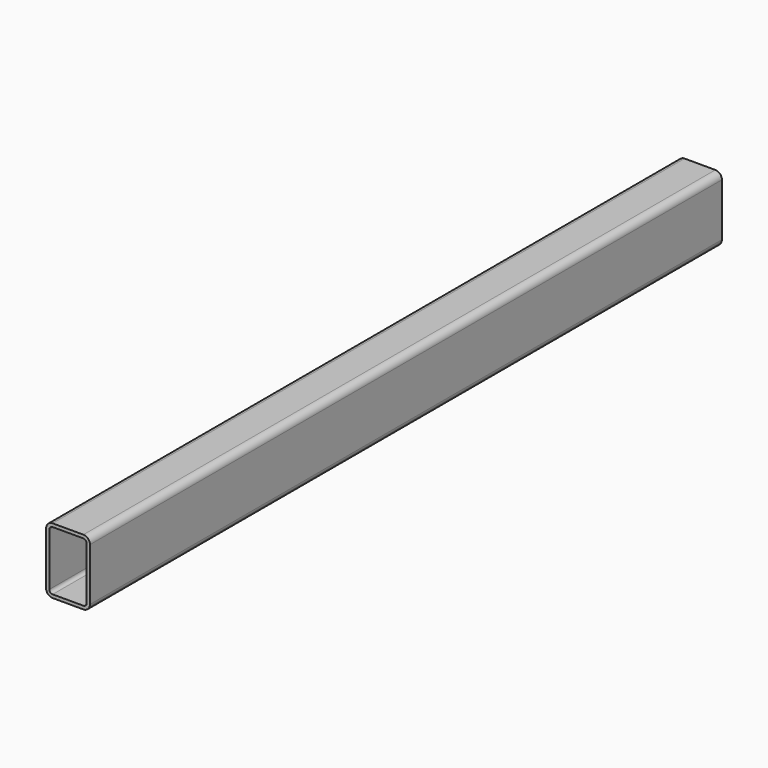
from build123d import *

# Parameters (mm, degrees)
F1_DEPTH = 720


with BuildPart() as f1:
    # F0 (on Front) → F1 (new body)
    with BuildSketch(Plane.XZ):
        with BuildLine():
            Line((14, 30), (-14, 30))
            ThreePointArc((-14, 30), (-18.242641, 28.242641), (-20, 24))
            Line((-20, 24), (-20, -24))
            ThreePointArc((-20, -24), (-18.242641, -28.242641), (-14, -30))
            Line((-14, -30), (14, -30))
            ThreePointArc((14, -30), (18.242641, -28.242641), (20, -24))
            Line((20, -24), (20, 24))
            ThreePointArc((20, 24), (18.242641, 28.242641), (14, 30))
        make_face()
        with BuildLine():
            Line((-17, -24), (-17, 24))
            ThreePointArc((-17, 24), (-16.12132, 26.12132), (-14, 27))
            Line((-14, 27), (14, 27))
            ThreePointArc((14, 27), (16.12132, 26.12132), (17, 24))
            Line((17, 24), (17, -24))
            ThreePointArc((17, -24), (16.12132, -26.12132), (14, -27))
            Line((14, -27), (-14, -27))
            ThreePointArc((-14, -27), (-16.12132, -26.12132), (-17, -24))
        make_face(mode=Mode.SUBTRACT)
    extrude(amount=F1_DEPTH)


solid = f1.part
